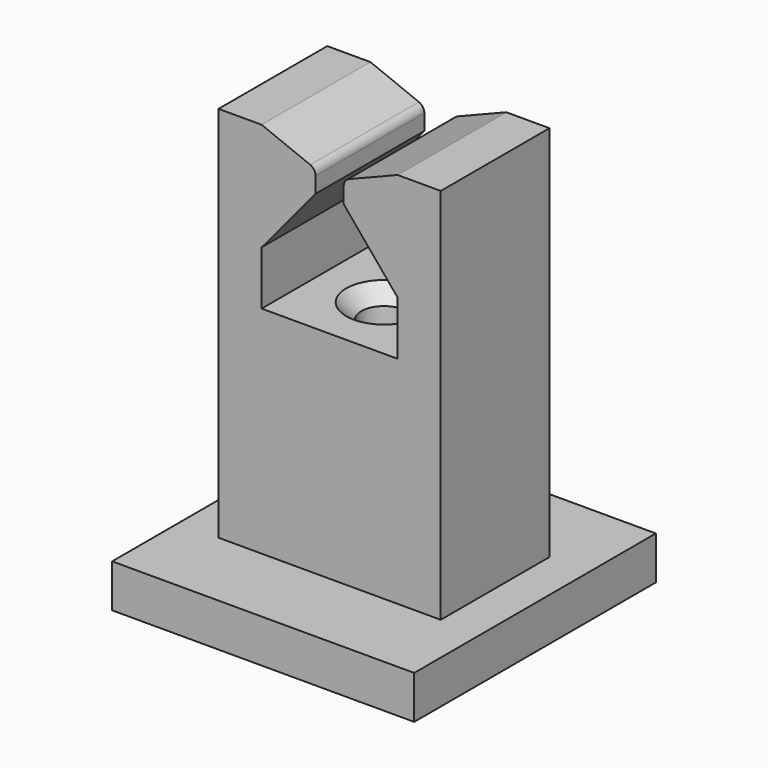
from build123d import *

# Parameters (mm, degrees)
SKETCH_W     = 6.3
SKETCH_H     = 6.3
PAD_DEPTH    = 10
SKETCH001_W  = 14
SKETCH001_H  = 14
PAD001_DEPTH = 2
SKETCH002_R  = 1.05
POCKET_DEPTH = 7.5
SKETCH003_W  = 6.3
SKETCH003_H  = 17.5
PAD002_DEPTH = 2
PAD003_DEPTH = 6.3
FILLET_R     = 0.4
FILLET001_R  = 0.4
CHAMFER_SIZE = 0.7


with BuildPart() as part:
    # Sketch → Pad (new body)
    with BuildSketch(Plane.XY):
        Rectangle(SKETCH_W, SKETCH_H)
    extrude(amount=PAD_DEPTH)

    # Sketch001 → Pad001 (join)
    with BuildSketch(Plane.XY):
        Rectangle(SKETCH001_W, SKETCH001_H)
    extrude(amount=-PAD001_DEPTH)

    # Sketch002 (on Face11 of Pad001) → Pocket (cut)
    with BuildSketch(Plane.XY.offset(10)):
        Circle(SKETCH002_R)
    extrude(amount=-POCKET_DEPTH, mode=Mode.SUBTRACT)

    # Sketch003 (on Face9 of Pocket) → Pad002 (join)
    with BuildSketch(Plane.YZ.offset(3.15)):
        with Locations((0, 8.75)):
            Rectangle(SKETCH003_W, SKETCH003_H)
    pad002 = extrude(amount=PAD002_DEPTH)

    # Sketch004 (on Face8 of Pad002) → Pad003 (join)
    with BuildSketch(Plane.XZ.offset(3.15)):
        Polygon((3.15, 17.5), (0.65, 16.5), (0.65, 15.5), (3.15, 12.5), align=None)
    pad003 = extrude(amount=-PAD003_DEPTH)

    # Mirrored: Pad003, Pad002 across Sketch004 V_Axis
    add(pad003.mirror(Plane(origin=(0, -3.15, 0), x_dir=(0, -1, 0), z_dir=(1, 0, 0))))
    add(pad002.mirror(Plane(origin=(0, -3.15, 0), x_dir=(0, -1, 0), z_dir=(1, 0, 0))))

    # Fillet
    fillet_edges = [part.edges().sort_by_distance(p)[0] for p in [
        (0.65, 0, 16.5),
    ]]
    fillet(fillet_edges, radius=FILLET_R)

    # Fillet001
    fillet001_edges = [part.edges().sort_by_distance(p)[0] for p in [
        (-0.65, 0, 16.5),
    ]]
    fillet(fillet001_edges, radius=FILLET001_R)

    # Chamfer
    chamfer_edges = [part.edges().sort_by_distance(p)[0] for p in [
        (-1.05, 0, 10),
    ]]
    chamfer(chamfer_edges, length=CHAMFER_SIZE)


solid = part.part
